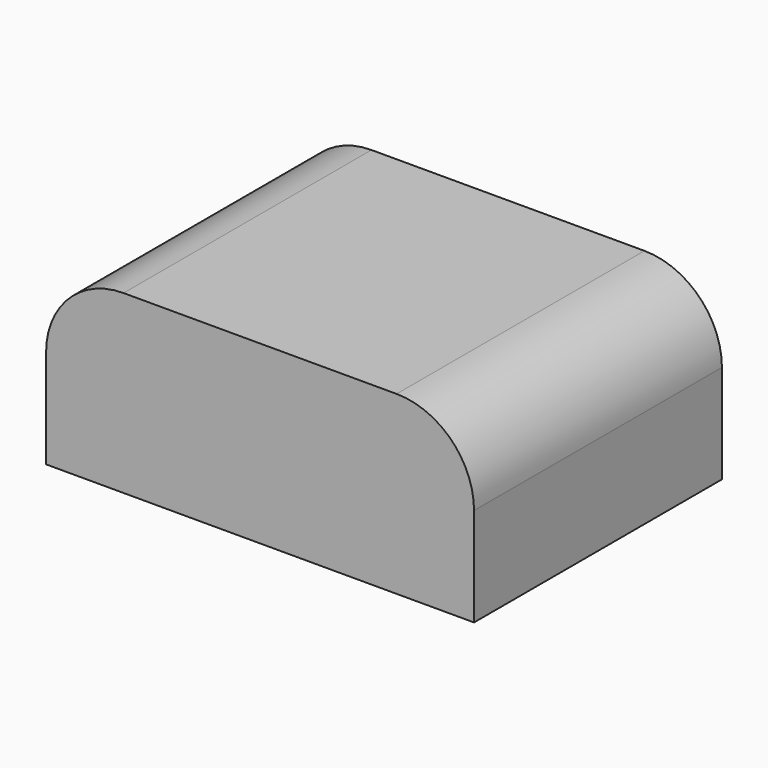
from build123d import *

# Parameters (mm, degrees)
F1_DEPTH = 25.4


with BuildPart() as f1:
    # F0 (on Front) → F1 (new body)
    with BuildSketch(Plane.XZ):
        with BuildLine():
            Line((-19.723572, 8.078999), (-19.723572, 0))
            Line((-19.723572, 0), (15.356588, 0))
            Line((15.356588, 0), (15.356588, 8.078999))
            ThreePointArc((15.356588, 8.078999), (13.496716, 12.569127), (9.006588, 14.428999))
            Line((9.006588, 14.428999), (-13.373572, 14.428999))
            ThreePointArc((-13.373572, 14.428999), (-17.8637, 12.569127), (-19.723572, 8.078999))
        make_face()
    extrude(amount=-F1_DEPTH)


solid = f1.part
